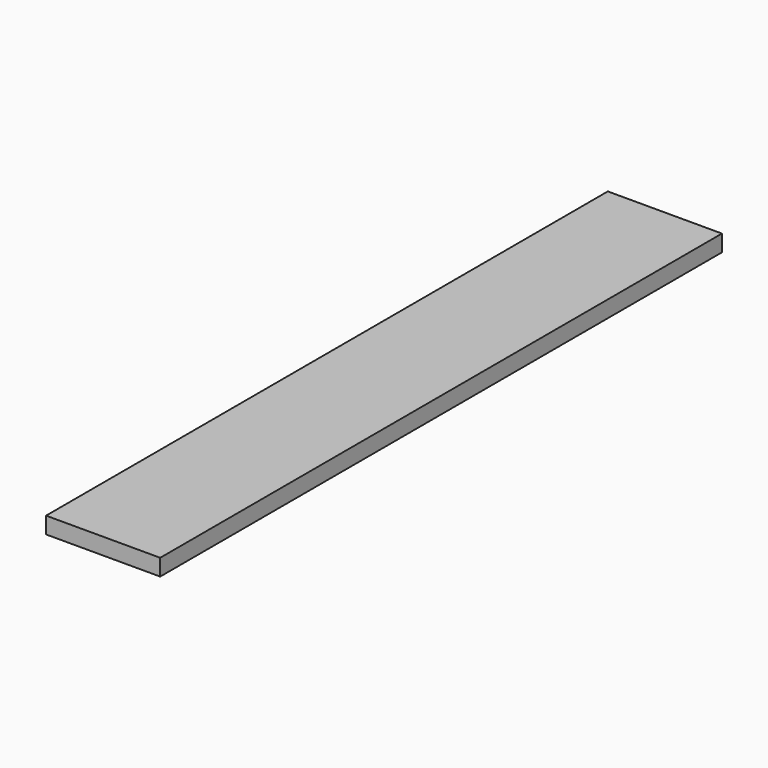
from build123d import *

# Parameters (mm, degrees)
SKETCH_W      = 41.275
SKETCH_H      = 254
EXTRUDE_DEPTH = 5.9944


with BuildPart() as part:
    # Sketch → Extrude (new body)
    with BuildSketch(Plane.XY):
        with Locations((-3.325215, -12.035308)):
            Rectangle(SKETCH_W, SKETCH_H)
    extrude(amount=EXTRUDE_DEPTH)


solid = part.part
